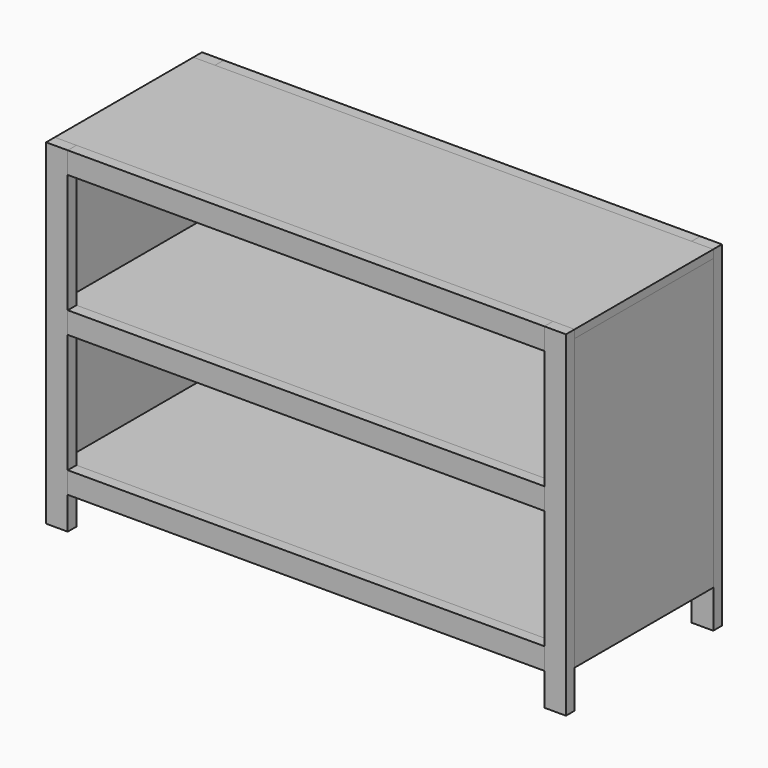
from build123d import *

# Parameters (mm, degrees)
F1_DEPTH = 406.4
F2_DEPTH = 406.4
F3_DEPTH = 406.4
F0_W     = 1181.1
F0_H     = 19.05
F4_DEPTH = 406.4
F5_DEPTH = 406.4
F6_W     = 50.8
F6_H     = 25.4
F7_DEPTH = 787.4
F8_DEPTH = 787.4
F6_W_2   = 1117.6
F9_DEPTH = 50.8


with BuildPart() as f1:
    # F0 (on Front) → F1 (new body)
    with BuildSketch(Plane.XZ):
        Polygon((0, 787.4), (-1219.2, 787.4), (-1219.2, 768.35), (-1200.15, 768.35), (-19.05, 768.35), (0, 768.35), align=None)
    extrude(amount=F1_DEPTH)


with BuildPart() as f2:
    # F0 (on Front) → F2 (new body)
    with BuildSketch(Plane.XZ):
        Polygon((0, 88.9), (0, 768.35), (-19.05, 768.35), (-19.05, 457.2), (-19.05, 438.15), (-19.05, 127), (-19.05, 107.95), (-19.05, 88.9), align=None)
    extrude(amount=F2_DEPTH)


with BuildPart() as f3:
    # F0 (on Front) → F3 (new body)
    with BuildSketch(Plane.XZ):
        Polygon((-1200.15, 768.35), (-1219.2, 768.35), (-1219.2, 88.9), (-1200.15, 88.9), (-1200.15, 107.95), (-1200.15, 127), (-1200.15, 438.15), (-1200.15, 457.2), align=None)
    extrude(amount=F3_DEPTH)


with BuildPart() as f4:
    # F0 (on Front) → F4 (new body)
    with BuildSketch(Plane.XZ):
        with Locations((-609.6, 447.675)):
            Rectangle(F0_W, F0_H)
    extrude(amount=F4_DEPTH)


with BuildPart() as f5:
    # F0 (on Front) → F5 (new body)
    with BuildSketch(Plane.XZ):
        with Locations((-609.6, 117.475)):
            Rectangle(F0_W, F0_H)
    extrude(amount=F5_DEPTH)


with BuildPart() as f7:
    # F6 (on face) → F7 (new body)
    with BuildSketch(Plane.XY.offset(787.4)):
        with Locations((-1193.8, -419.1)):
            Rectangle(F6_W, F6_H)
    extrude(amount=-F7_DEPTH)


with BuildPart() as f8:
    # F6 (on face) → F8 (new body)
    with BuildSketch(Plane.XY.offset(787.4)):
        with Locations((-25.4, -419.1)):
            Rectangle(F6_W, F6_H)
    extrude(amount=-F8_DEPTH)


with BuildPart() as f9:
    # F6 (on face) → F9 (new body)
    with BuildSketch(Plane.XY.offset(787.4)):
        with Locations((-609.6, -419.1)):
            Rectangle(F6_W_2, F6_H)
    extrude(amount=-F9_DEPTH)


with BuildPart() as f10_1:
    # F10: copy of F9
    add(f9.part)


with BuildPart() as f9_1:
    # F11: moved
    add(f9.part.moved(Location((0, 0, -330.2))))


with BuildPart() as f12_1:
    # F12: copy of F9
    add(f9_1.part)


with BuildPart() as f9_2:
    # F13: moved
    add(f9_1.part.moved(Location((0, 0, -330.2))))


with BuildPart() as f14_1:
    # F14: copy of F7
    add(f7.part)


with BuildPart() as f14_2:
    # F14: copy of F10_1
    add(f10_1.part)


with BuildPart() as f14_3:
    # F14: copy of F12_1
    add(f12_1.part)


with BuildPart() as f14_4:
    # F14: copy of F9
    add(f9_2.part)


with BuildPart() as f14_5:
    # F14: copy of F8
    add(f8.part)


with BuildPart() as f14_5_1:
    # F15: moved
    add(f14_5.part.moved(Location((0, 431.8, 0))))


with BuildPart() as f14_4_1:
    # F15: moved
    add(f14_4.part.moved(Location((0, 431.8, 0))))


with BuildPart() as f14_2_1:
    # F15: moved
    add(f14_2.part.moved(Location((0, 431.8, 0))))


with BuildPart() as f14_3_1:
    # F15: moved
    add(f14_3.part.moved(Location((0, 431.8, 0))))


with BuildPart() as f14_1_1:
    # F15: moved
    add(f14_1.part.moved(Location((0, 431.8, 0))))


solid = Compound([f1.part, f2.part, f3.part, f4.part, f5.part, f7.part, f8.part, f10_1.part, f12_1.part, f9_2.part, f14_5_1.part, f14_4_1.part, f14_2_1.part, f14_3_1.part, f14_1_1.part])
